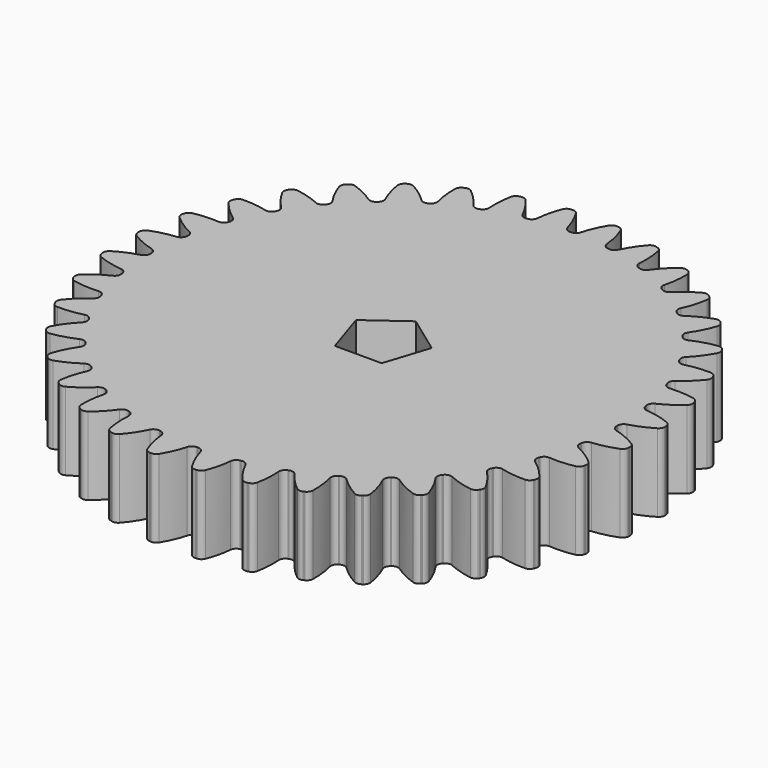
from build123d import *

# Parameters (mm, degrees)
F1_DEPTH = 5


with BuildPart() as f1:
    # F0 (on Top) → F1 (new body, symmetric)
    with BuildSketch(Plane.XY):
        with BuildLine():
            ThreePointArc((-0.065632, 29.879316), (-0.556379, 30.040292), (-0.846495, 30.467584))
            ThreePointArc((-0.846495, 30.467584), (-1.375451, 31.970422), (-2.110767, 33.383796))
            ThreePointArc((-2.110767, 33.383796), (-2.426682, 33.67679), (-2.848751, 33.763426))
            Line((-2.848751, 33.763426), (-2.9533, 33.756074))
            Line((-2.9533, 33.756074), (-3.057538, 33.74516))
            ThreePointArc((-3.057538, 33.74516), (-3.45815, 33.586548), (-3.718388, 33.243147))
            ThreePointArc((-3.718388, 33.243147), (-4.197103, 31.723559), (-4.457058, 30.151701))
            ThreePointArc((-4.457058, 30.151701), (-4.668568, 29.680522), (-5.123906, 29.436774))
            Line((-5.123906, 29.436774), (-5.188641, 29.426141))
            Line((-5.188641, 29.426141), (-5.25311, 29.413992))
            ThreePointArc((-5.25311, 29.413992), (-5.764354, 29.487306), (-6.124261, 29.857728))
            ThreePointArc((-6.124261, 29.857728), (-6.906146, 31.245882), (-7.87572, 32.510098))
            ThreePointArc((-7.87572, 32.510098), (-8.237714, 32.743782), (-8.668415, 32.755811))
            Line((-8.668415, 32.755811), (-8.7701, 32.730416))
            Line((-8.7701, 32.730416), (-8.870858, 32.701566))
            ThreePointArc((-8.870858, 32.701566), (-9.237842, 32.475799), (-9.434496, 32.092425))
            ThreePointArc((-9.434496, 32.092425), (-9.642064, 30.512795), (-9.625119, 28.919676))
            ThreePointArc((-9.625119, 28.919676), (-9.751596, 28.418927), (-10.157691, 28.099814))
            Line((-10.157691, 28.099814), (-10.219596, 28.0781))
            Line((-10.219596, 28.0781), (-10.280975, 28.054942))
            ThreePointArc((-10.280975, 28.054942), (-10.797183, 28.038365), (-11.215946, 28.340663))
            ThreePointArc((-11.215946, 28.340663), (-12.227003, 29.571954), (-13.401376, 30.648599))
            ThreePointArc((-13.401376, 30.648599), (-13.798449, 30.815873), (-14.224695, 30.752929))
            Line((-14.224695, 30.752929), (-14.320425, 30.710263))
            Line((-14.320425, 30.710263), (-14.414643, 30.664355))
            ThreePointArc((-14.414643, 30.664355), (-14.736847, 30.378291), (-14.863941, 29.966593))
            ThreePointArc((-14.863941, 29.966593), (-14.794056, 28.374918), (-14.500727, 26.808944))
            ThreePointArc((-14.500727, 26.808944), (-14.538328, 26.29384), (-14.88284, 25.909057))
            Line((-14.88284, 25.909057), (-14.940034, 25.876924))
            Line((-14.940034, 25.876924), (-14.996459, 25.843459))
            ThreePointArc((-14.996459, 25.843459), (-15.501947, 25.737495), (-15.96684, 25.962483))
            ThreePointArc((-15.96684, 25.962483), (-17.176349, 26.9995), (-18.519838, 27.85586))
            ThreePointArc((-18.519838, 27.85586), (-18.939925, 27.951643), (-19.348766, 27.815638))
            Line((-19.348766, 27.815638), (-19.435632, 27.756996))
            Line((-19.435632, 27.756996), (-19.520447, 27.695425))
            ThreePointArc((-19.520447, 27.695425), (-19.788082, 27.357757), (-19.841755, 26.930244))
            ThreePointArc((-19.841755, 26.930244), (-19.49654, 25.374885), (-18.935738, 23.883638))
            ThreePointArc((-18.935738, 23.883638), (-18.883322, 23.369831), (-19.155782, 22.93107))
            Line((-19.155782, 22.93107), (-19.206528, 22.889493))
            Line((-19.206528, 22.889493), (-19.256285, 22.846738))
            ThreePointArc((-19.256285, 22.846738), (-19.735692, 22.654607), (-20.232592, 22.795449))
            ThreePointArc((-20.232592, 22.795449), (-21.603801, 23.606683), (-23.075585, 24.216738))
            ThreePointArc((-23.075585, 24.216738), (-23.505923, 24.238118), (-23.884935, 24.033185))
            Line((-23.884935, 24.033185), (-23.960299, 23.96035))
            Line((-23.960299, 23.96035), (-24.033134, 23.884986))
            ThreePointArc((-24.033134, 23.884986), (-24.238067, 23.505974), (-24.216687, 23.075636))
            ThreePointArc((-24.216687, 23.075636), (-23.606632, 21.603852), (-22.795398, 20.232643))
            ThreePointArc((-22.795398, 20.232643), (-22.654556, 19.735743), (-22.846687, 19.256336))
            Line((-22.846687, 19.256336), (-22.889442, 19.206579))
            Line((-22.889442, 19.206579), (-22.931019, 19.155833))
            ThreePointArc((-22.931019, 19.155833), (-23.369779, 18.883373), (-23.883587, 18.935789))
            ThreePointArc((-23.883587, 18.935789), (-25.374834, 19.496591), (-26.930193, 19.841806))
            ThreePointArc((-26.930193, 19.841806), (-27.357706, 19.788133), (-27.695374, 19.520499))
            Line((-27.695374, 19.520499), (-27.756945, 19.435683))
            Line((-27.756945, 19.435683), (-27.815587, 19.348817))
            ThreePointArc((-27.815587, 19.348817), (-27.951592, 18.939976), (-27.855809, 18.519889))
            ThreePointArc((-27.855809, 18.519889), (-26.999449, 17.1764), (-25.962432, 15.966891))
            ThreePointArc((-25.962432, 15.966891), (-25.737444, 15.501998), (-25.843408, 14.99651))
            Line((-25.843408, 14.99651), (-25.876873, 14.940085))
            Line((-25.876873, 14.940085), (-25.909006, 14.882891))
            ThreePointArc((-25.909006, 14.882891), (-26.293789, 14.538379), (-26.808893, 14.500778))
            ThreePointArc((-26.808893, 14.500778), (-28.374866, 14.794107), (-29.966542, 14.863992))
            ThreePointArc((-29.966542, 14.863992), (-30.37824, 14.736898), (-30.664304, 14.414694))
            Line((-30.664304, 14.414694), (-30.710212, 14.320476))
            Line((-30.710212, 14.320476), (-30.752878, 14.224746))
            ThreePointArc((-30.752878, 14.224746), (-30.815822, 13.7985), (-30.648548, 13.401427))
            ThreePointArc((-30.648548, 13.401427), (-29.571903, 12.227054), (-28.340611, 11.215997))
            ThreePointArc((-28.340611, 11.215997), (-28.038314, 10.797234), (-28.054891, 10.281026))
            Line((-28.054891, 10.281026), (-28.078049, 10.219647))
            Line((-28.078049, 10.219647), (-28.099763, 10.157742))
            ThreePointArc((-28.099763, 10.157742), (-28.418876, 9.751647), (-28.919625, 9.62517))
            ThreePointArc((-28.919625, 9.62517), (-30.512744, 9.642115), (-32.092374, 9.434547))
            ThreePointArc((-32.092374, 9.434547), (-32.475748, 9.237893), (-32.701515, 8.870909))
            Line((-32.701515, 8.870909), (-32.730365, 8.770151))
            Line((-32.730365, 8.770151), (-32.75576, 8.668466))
            ThreePointArc((-32.75576, 8.668466), (-32.743731, 8.237765), (-32.510047, 7.875772))
            ThreePointArc((-32.510047, 7.875772), (-31.245831, 6.906197), (-29.857677, 6.124312))
            ThreePointArc((-29.857677, 6.124312), (-29.487255, 5.764405), (-29.413941, 5.253161))
            Line((-29.413941, 5.253161), (-29.42609, 5.188692))
            Line((-29.42609, 5.188692), (-29.436723, 5.123957))
            ThreePointArc((-29.436723, 5.123957), (-29.680471, 4.668619), (-30.15165, 4.457109))
            ThreePointArc((-30.15165, 4.457109), (-31.723508, 4.197154), (-33.243096, 3.71844))
            ThreePointArc((-33.243096, 3.71844), (-33.586497, 3.458201), (-33.745109, 3.057589))
            Line((-33.745109, 3.057589), (-33.756023, 2.953351))
            Line((-33.756023, 2.953351), (-33.763375, 2.848802))
            ThreePointArc((-33.763375, 2.848802), (-33.676739, 2.426733), (-33.383745, 2.110818))
            ThreePointArc((-33.383745, 2.110818), (-31.970371, 1.375502), (-30.467533, 0.846546))
            ThreePointArc((-30.467533, 0.846546), (-30.040241, 0.55643), (-29.879265, 0.065683))
            Line((-29.879265, 0.065683), (-29.880034, 8.5e-05))
            Line((-29.880034, 8.5e-05), (-29.879265, -0.065513))
            ThreePointArc((-29.879265, -0.065513), (-30.040241, -0.55626), (-30.467533, -0.846376))
            ThreePointArc((-30.467533, -0.846376), (-31.970371, -1.375332), (-33.383745, -2.110648))
            ThreePointArc((-33.383745, -2.110648), (-33.676739, -2.426563), (-33.763375, -2.848632))
            Line((-33.763375, -2.848632), (-33.756023, -2.953181))
            Line((-33.756023, -2.953181), (-33.745109, -3.057419))
            ThreePointArc((-33.745109, -3.057419), (-33.586497, -3.458031), (-33.243096, -3.71827))
            ThreePointArc((-33.243096, -3.71827), (-31.723508, -4.196984), (-30.15165, -4.456939))
            ThreePointArc((-30.15165, -4.456939), (-29.680471, -4.668449), (-29.436723, -5.123787))
            Line((-29.436723, -5.123787), (-29.42609, -5.188523))
            Line((-29.42609, -5.188523), (-29.413941, -5.252991))
            ThreePointArc((-29.413941, -5.252991), (-29.487255, -5.764235), (-29.857677, -6.124142))
            ThreePointArc((-29.857677, -6.124142), (-31.245831, -6.906027), (-32.510047, -7.875602))
            ThreePointArc((-32.510047, -7.875602), (-32.743731, -8.237596), (-32.75576, -8.668297))
            Line((-32.75576, -8.668297), (-32.730365, -8.769981))
            Line((-32.730365, -8.769981), (-32.701515, -8.870739))
            ThreePointArc((-32.701515, -8.870739), (-32.475748, -9.237723), (-32.092374, -9.434377))
            ThreePointArc((-32.092374, -9.434377), (-30.512744, -9.641945), (-28.919625, -9.625))
            ThreePointArc((-28.919625, -9.625), (-28.418876, -9.751478), (-28.099763, -10.157572))
            Line((-28.099763, -10.157572), (-28.078049, -10.219477))
            Line((-28.078049, -10.219477), (-28.054891, -10.280856))
            ThreePointArc((-28.054891, -10.280856), (-28.038314, -10.797065), (-28.340611, -11.215827))
            ThreePointArc((-28.340611, -11.215827), (-29.571903, -12.226884), (-30.648548, -13.401257))
            ThreePointArc((-30.648548, -13.401257), (-30.815822, -13.79833), (-30.752878, -14.224576))
            Line((-30.752878, -14.224576), (-30.710212, -14.320306))
            Line((-30.710212, -14.320306), (-30.664304, -14.414524))
            ThreePointArc((-30.664304, -14.414524), (-30.37824, -14.736728), (-29.966542, -14.863822))
            ThreePointArc((-29.966542, -14.863822), (-28.374866, -14.793937), (-26.808893, -14.500608))
            ThreePointArc((-26.808893, -14.500608), (-26.293789, -14.53821), (-25.909006, -14.882721))
            Line((-25.909006, -14.882721), (-25.876873, -14.939915))
            Line((-25.876873, -14.939915), (-25.843408, -14.99634))
            ThreePointArc((-25.843408, -14.99634), (-25.737444, -15.501828), (-25.962432, -15.966722))
            ThreePointArc((-25.962432, -15.966722), (-26.999449, -17.17623), (-27.855809, -18.519719))
            ThreePointArc((-27.855809, -18.519719), (-27.951592, -18.939807), (-27.815587, -19.348647))
            Line((-27.815587, -19.348647), (-27.756945, -19.435514))
            Line((-27.756945, -19.435514), (-27.695374, -19.520329))
            ThreePointArc((-27.695374, -19.520329), (-27.357706, -19.787963), (-26.930193, -19.841636))
            ThreePointArc((-26.930193, -19.841636), (-25.374834, -19.496421), (-23.883587, -18.935619))
            ThreePointArc((-23.883587, -18.935619), (-23.369779, -18.883203), (-22.931019, -19.155664))
            Line((-22.931019, -19.155664), (-22.889442, -19.206409))
            Line((-22.889442, -19.206409), (-22.846687, -19.256166))
            ThreePointArc((-22.846687, -19.256166), (-22.654556, -19.735573), (-22.795398, -20.232473))
            ThreePointArc((-22.795398, -20.232473), (-23.606632, -21.603682), (-24.216687, -23.075466))
            ThreePointArc((-24.216687, -23.075466), (-24.238067, -23.505804), (-24.033134, -23.884817))
            Line((-24.033134, -23.884817), (-23.960299, -23.96018))
            Line((-23.960299, -23.96018), (-23.884935, -24.033015))
            ThreePointArc((-23.884935, -24.033015), (-23.505923, -24.237948), (-23.075585, -24.216569))
            ThreePointArc((-23.075585, -24.216569), (-21.603801, -23.606513), (-20.232592, -22.795279))
            ThreePointArc((-20.232592, -22.795279), (-19.735692, -22.654437), (-19.256285, -22.846568))
            Line((-19.256285, -22.846568), (-19.206528, -22.889323))
            Line((-19.206528, -22.889323), (-19.155782, -22.9309))
            ThreePointArc((-19.155782, -22.9309), (-18.883322, -23.369661), (-18.935738, -23.883468))
            ThreePointArc((-18.935738, -23.883468), (-19.49654, -25.374715), (-19.841755, -26.930074))
            ThreePointArc((-19.841755, -26.930074), (-19.788082, -27.357587), (-19.520447, -27.695255))
            Line((-19.520447, -27.695255), (-19.435632, -27.756826))
            Line((-19.435632, -27.756826), (-19.348766, -27.815468))
            ThreePointArc((-19.348766, -27.815468), (-18.939925, -27.951473), (-18.519838, -27.855691))
            ThreePointArc((-18.519838, -27.855691), (-17.176349, -26.99933), (-15.96684, -25.962313))
            ThreePointArc((-15.96684, -25.962313), (-15.501947, -25.737325), (-14.996459, -25.843289))
            Line((-14.996459, -25.843289), (-14.940034, -25.876754))
            Line((-14.940034, -25.876754), (-14.88284, -25.908887))
            ThreePointArc((-14.88284, -25.908887), (-14.538328, -26.29367), (-14.500727, -26.808774))
            ThreePointArc((-14.500727, -26.808774), (-14.794056, -28.374748), (-14.863941, -29.966423))
            ThreePointArc((-14.863941, -29.966423), (-14.736847, -30.378121), (-14.414643, -30.664185))
            Line((-14.414643, -30.664185), (-14.320425, -30.710093))
            Line((-14.320425, -30.710093), (-14.224695, -30.752759))
            ThreePointArc((-14.224695, -30.752759), (-13.798449, -30.815704), (-13.401376, -30.648429))
            ThreePointArc((-13.401376, -30.648429), (-12.227003, -29.571784), (-11.215946, -28.340493))
            ThreePointArc((-11.215946, -28.340493), (-10.797183, -28.038195), (-10.280975, -28.054772))
            Line((-10.280975, -28.054772), (-10.219596, -28.077931))
            Line((-10.219596, -28.077931), (-10.157691, -28.099644))
            ThreePointArc((-10.157691, -28.099644), (-9.751596, -28.418757), (-9.625119, -28.919506))
            ThreePointArc((-9.625119, -28.919506), (-9.642064, -30.512625), (-9.434496, -32.092255))
            ThreePointArc((-9.434496, -32.092255), (-9.237842, -32.475629), (-8.870858, -32.701397))
            Line((-8.870858, -32.701397), (-8.7701, -32.730246))
            Line((-8.7701, -32.730246), (-8.668415, -32.755641))
            ThreePointArc((-8.668415, -32.755641), (-8.237714, -32.743612), (-7.87572, -32.509928))
            ThreePointArc((-7.87572, -32.509928), (-6.906146, -31.245712), (-6.124261, -29.857558))
            ThreePointArc((-6.124261, -29.857558), (-5.764354, -29.487136), (-5.25311, -29.413823))
            Line((-5.25311, -29.413823), (-5.188641, -29.425971))
            Line((-5.188641, -29.425971), (-5.123906, -29.436605))
            ThreePointArc((-5.123906, -29.436605), (-4.668568, -29.680352), (-4.457058, -30.151531))
            ThreePointArc((-4.457058, -30.151531), (-4.197103, -31.723389), (-3.718388, -33.242977))
            ThreePointArc((-3.718388, -33.242977), (-3.45815, -33.586378), (-3.057538, -33.74499))
            Line((-3.057538, -33.74499), (-2.9533, -33.755905))
            Line((-2.9533, -33.755905), (-2.848751, -33.763256))
            ThreePointArc((-2.848751, -33.763256), (-2.426682, -33.67662), (-2.110767, -33.383626))
            ThreePointArc((-2.110767, -33.383626), (-1.375451, -31.970252), (-0.846495, -30.467414))
            ThreePointArc((-0.846495, -30.467414), (-0.556379, -30.040122), (-0.065632, -29.879146))
            Line((-0.065632, -29.879146), (-3.4e-05, -29.879915))
            Line((-3.4e-05, -29.879915), (0.065564, -29.879146))
            ThreePointArc((0.065564, -29.879146), (0.556311, -30.040122), (0.846427, -30.467414))
            ThreePointArc((0.846427, -30.467414), (1.375383, -31.970252), (2.110699, -33.383626))
            ThreePointArc((2.110699, -33.383626), (2.426614, -33.67662), (2.848683, -33.763256))
            Line((2.848683, -33.763256), (2.953233, -33.755905))
            Line((2.953233, -33.755905), (3.05747, -33.74499))
            ThreePointArc((3.05747, -33.74499), (3.458082, -33.586378), (3.718321, -33.242977))
            ThreePointArc((3.718321, -33.242977), (4.197035, -31.723389), (4.45699, -30.151531))
            ThreePointArc((4.45699, -30.151531), (4.6685, -29.680352), (5.123839, -29.436605))
            Line((5.123839, -29.436605), (5.188574, -29.425971))
            Line((5.188574, -29.425971), (5.253042, -29.413823))
            ThreePointArc((5.253042, -29.413823), (5.764286, -29.487136), (6.124193, -29.857558))
            ThreePointArc((6.124193, -29.857558), (6.906078, -31.245712), (7.875653, -32.509928))
            ThreePointArc((7.875653, -32.509928), (8.237647, -32.743612), (8.668348, -32.755641))
            Line((8.668348, -32.755641), (8.770032, -32.730246))
            Line((8.770032, -32.730246), (8.87079, -32.701397))
            ThreePointArc((8.87079, -32.701397), (9.237774, -32.475629), (9.434428, -32.092255))
            ThreePointArc((9.434428, -32.092255), (9.641996, -30.512625), (9.625051, -28.919506))
            ThreePointArc((9.625051, -28.919506), (9.751529, -28.418757), (10.157623, -28.099644))
            Line((10.157623, -28.099644), (10.219528, -28.077931))
            Line((10.219528, -28.077931), (10.280907, -28.054772))
            ThreePointArc((10.280907, -28.054772), (10.797116, -28.038195), (11.215878, -28.340493))
            ThreePointArc((11.215878, -28.340493), (12.226935, -29.571784), (13.401308, -30.648429))
            ThreePointArc((13.401308, -30.648429), (13.798381, -30.815704), (14.224627, -30.752759))
            Line((14.224627, -30.752759), (14.320357, -30.710093))
            Line((14.320357, -30.710093), (14.414575, -30.664185))
            ThreePointArc((14.414575, -30.664185), (14.736779, -30.378121), (14.863873, -29.966423))
            ThreePointArc((14.863873, -29.966423), (14.793988, -28.374748), (14.500659, -26.808774))
            ThreePointArc((14.500659, -26.808774), (14.538261, -26.29367), (14.882772, -25.908887))
            Line((14.882772, -25.908887), (14.939966, -25.876754))
            Line((14.939966, -25.876754), (14.996391, -25.843289))
            ThreePointArc((14.996391, -25.843289), (15.501879, -25.737325), (15.966773, -25.962313))
            ThreePointArc((15.966773, -25.962313), (17.176281, -26.99933), (18.51977, -27.855691))
            ThreePointArc((18.51977, -27.855691), (18.939858, -27.951473), (19.348698, -27.815468))
            Line((19.348698, -27.815468), (19.435565, -27.756826))
            Line((19.435565, -27.756826), (19.52038, -27.695255))
            ThreePointArc((19.52038, -27.695255), (19.788014, -27.357587), (19.841687, -26.930074))
            ThreePointArc((19.841687, -26.930074), (19.496472, -25.374715), (18.93567, -23.883468))
            ThreePointArc((18.93567, -23.883468), (18.883254, -23.369661), (19.155715, -22.9309))
            Line((19.155715, -22.9309), (19.20646, -22.889323))
            Line((19.20646, -22.889323), (19.256217, -22.846568))
            ThreePointArc((19.256217, -22.846568), (19.735624, -22.654437), (20.232524, -22.795279))
            ThreePointArc((20.232524, -22.795279), (21.603733, -23.606513), (23.075517, -24.216569))
            ThreePointArc((23.075517, -24.216569), (23.505855, -24.237948), (23.884868, -24.033015))
            Line((23.884868, -24.033015), (23.960231, -23.96018))
            Line((23.960231, -23.96018), (24.033066, -23.884817))
            ThreePointArc((24.033066, -23.884817), (24.237999, -23.505804), (24.21662, -23.075466))
            ThreePointArc((24.21662, -23.075466), (23.606564, -21.603682), (22.79533, -20.232473))
            ThreePointArc((22.79533, -20.232473), (22.654488, -19.735573), (22.846619, -19.256166))
            Line((22.846619, -19.256166), (22.889374, -19.206409))
            Line((22.889374, -19.206409), (22.930951, -19.155664))
            ThreePointArc((22.930951, -19.155664), (23.369712, -18.883203), (23.883519, -18.935619))
            ThreePointArc((23.883519, -18.935619), (25.374766, -19.496421), (26.930125, -19.841636))
            ThreePointArc((26.930125, -19.841636), (27.357638, -19.787963), (27.695306, -19.520329))
            Line((27.695306, -19.520329), (27.756877, -19.435514))
            Line((27.756877, -19.435514), (27.815519, -19.348647))
            ThreePointArc((27.815519, -19.348647), (27.951524, -18.939807), (27.855742, -18.519719))
            ThreePointArc((27.855742, -18.519719), (26.999381, -17.17623), (25.962364, -15.966722))
            ThreePointArc((25.962364, -15.966722), (25.737376, -15.501828), (25.84334, -14.99634))
            Line((25.84334, -14.99634), (25.876805, -14.939915))
            Line((25.876805, -14.939915), (25.908938, -14.882721))
            ThreePointArc((25.908938, -14.882721), (26.293721, -14.53821), (26.808825, -14.500608))
            ThreePointArc((26.808825, -14.500608), (28.374799, -14.793937), (29.966474, -14.863822))
            ThreePointArc((29.966474, -14.863822), (30.378172, -14.736728), (30.664236, -14.414524))
            Line((30.664236, -14.414524), (30.710144, -14.320306))
            Line((30.710144, -14.320306), (30.75281, -14.224576))
            ThreePointArc((30.75281, -14.224576), (30.815755, -13.79833), (30.64848, -13.401257))
            ThreePointArc((30.64848, -13.401257), (29.571835, -12.226884), (28.340544, -11.215827))
            ThreePointArc((28.340544, -11.215827), (28.038246, -10.797065), (28.054823, -10.280856))
            Line((28.054823, -10.280856), (28.077982, -10.219477))
            Line((28.077982, -10.219477), (28.099695, -10.157572))
            ThreePointArc((28.099695, -10.157572), (28.418808, -9.751478), (28.919557, -9.625))
            ThreePointArc((28.919557, -9.625), (30.512676, -9.641945), (32.092306, -9.434377))
            ThreePointArc((32.092306, -9.434377), (32.47568, -9.237723), (32.701448, -8.870739))
            Line((32.701448, -8.870739), (32.730297, -8.769981))
            Line((32.730297, -8.769981), (32.755692, -8.668297))
            ThreePointArc((32.755692, -8.668297), (32.743663, -8.237596), (32.509979, -7.875602))
            ThreePointArc((32.509979, -7.875602), (31.245763, -6.906027), (29.857609, -6.124142))
            ThreePointArc((29.857609, -6.124142), (29.487187, -5.764235), (29.413874, -5.252991))
            Line((29.413874, -5.252991), (29.426022, -5.188523))
            Line((29.426022, -5.188523), (29.436656, -5.123787))
            ThreePointArc((29.436656, -5.123787), (29.680403, -4.668449), (30.151582, -4.456939))
            ThreePointArc((30.151582, -4.456939), (31.723441, -4.196984), (33.243029, -3.71827))
            ThreePointArc((33.243029, -3.71827), (33.586429, -3.458031), (33.745041, -3.057419))
            Line((33.745041, -3.057419), (33.755956, -2.953181))
            Line((33.755956, -2.953181), (33.763308, -2.848632))
            ThreePointArc((33.763308, -2.848632), (33.676671, -2.426563), (33.383677, -2.110648))
            ThreePointArc((33.383677, -2.110648), (31.970303, -1.375332), (30.467466, -0.846376))
            ThreePointArc((30.467466, -0.846376), (30.040173, -0.55626), (29.879197, -0.065513))
            Line((29.879197, -0.065513), (29.879966, 8.5e-05))
            Line((29.879966, 8.5e-05), (29.879197, 0.065683))
            ThreePointArc((29.879197, 0.065683), (30.040173, 0.55643), (30.467466, 0.846546))
            ThreePointArc((30.467466, 0.846546), (31.970303, 1.375502), (33.383677, 2.110818))
            ThreePointArc((33.383677, 2.110818), (33.676671, 2.426733), (33.763308, 2.848802))
            Line((33.763308, 2.848802), (33.755956, 2.953351))
            Line((33.755956, 2.953351), (33.745041, 3.057589))
            ThreePointArc((33.745041, 3.057589), (33.586429, 3.458201), (33.243029, 3.71844))
            ThreePointArc((33.243029, 3.71844), (31.723441, 4.197154), (30.151582, 4.457109))
            ThreePointArc((30.151582, 4.457109), (29.680403, 4.668619), (29.436656, 5.123957))
            Line((29.436656, 5.123957), (29.426022, 5.188692))
            Line((29.426022, 5.188692), (29.413874, 5.253161))
            ThreePointArc((29.413874, 5.253161), (29.487187, 5.764405), (29.857609, 6.124312))
            ThreePointArc((29.857609, 6.124312), (31.245763, 6.906197), (32.509979, 7.875772))
            ThreePointArc((32.509979, 7.875772), (32.743663, 8.237765), (32.755692, 8.668466))
            Line((32.755692, 8.668466), (32.730297, 8.770151))
            Line((32.730297, 8.770151), (32.701448, 8.870909))
            ThreePointArc((32.701448, 8.870909), (32.47568, 9.237893), (32.092306, 9.434547))
            ThreePointArc((32.092306, 9.434547), (30.512676, 9.642115), (28.919557, 9.62517))
            ThreePointArc((28.919557, 9.62517), (28.418808, 9.751647), (28.099695, 10.157742))
            Line((28.099695, 10.157742), (28.077982, 10.219647))
            Line((28.077982, 10.219647), (28.054823, 10.281026))
            ThreePointArc((28.054823, 10.281026), (28.038246, 10.797234), (28.340544, 11.215997))
            ThreePointArc((28.340544, 11.215997), (29.571835, 12.227054), (30.64848, 13.401427))
            ThreePointArc((30.64848, 13.401427), (30.815755, 13.7985), (30.75281, 14.224746))
            Line((30.75281, 14.224746), (30.710144, 14.320476))
            Line((30.710144, 14.320476), (30.664236, 14.414694))
            ThreePointArc((30.664236, 14.414694), (30.378172, 14.736898), (29.966474, 14.863992))
            ThreePointArc((29.966474, 14.863992), (28.374799, 14.794107), (26.808825, 14.500778))
            ThreePointArc((26.808825, 14.500778), (26.293721, 14.538379), (25.908938, 14.882891))
            Line((25.908938, 14.882891), (25.876805, 14.940085))
            Line((25.876805, 14.940085), (25.84334, 14.99651))
            ThreePointArc((25.84334, 14.99651), (25.737376, 15.501998), (25.962364, 15.966891))
            ThreePointArc((25.962364, 15.966891), (26.999381, 17.1764), (27.855742, 18.519889))
            ThreePointArc((27.855742, 18.519889), (27.951524, 18.939976), (27.815519, 19.348817))
            Line((27.815519, 19.348817), (27.756877, 19.435683))
            Line((27.756877, 19.435683), (27.695306, 19.520499))
            ThreePointArc((27.695306, 19.520499), (27.357638, 19.788133), (26.930125, 19.841806))
            ThreePointArc((26.930125, 19.841806), (25.374766, 19.496591), (23.883519, 18.935789))
            ThreePointArc((23.883519, 18.935789), (23.369712, 18.883373), (22.930951, 19.155833))
            Line((22.930951, 19.155833), (22.889374, 19.206579))
            Line((22.889374, 19.206579), (22.846619, 19.256336))
            ThreePointArc((22.846619, 19.256336), (22.654488, 19.735743), (22.79533, 20.232643))
            ThreePointArc((22.79533, 20.232643), (23.606564, 21.603852), (24.21662, 23.075636))
            ThreePointArc((24.21662, 23.075636), (24.237999, 23.505974), (24.033066, 23.884986))
            Line((24.033066, 23.884986), (23.960231, 23.96035))
            Line((23.960231, 23.96035), (23.884868, 24.033185))
            ThreePointArc((23.884868, 24.033185), (23.505855, 24.238118), (23.075517, 24.216738))
            ThreePointArc((23.075517, 24.216738), (21.603733, 23.606683), (20.232524, 22.795449))
            ThreePointArc((20.232524, 22.795449), (19.735624, 22.654607), (19.256217, 22.846738))
            Line((19.256217, 22.846738), (19.20646, 22.889493))
            Line((19.20646, 22.889493), (19.155715, 22.93107))
            ThreePointArc((19.155715, 22.93107), (18.883254, 23.369831), (18.93567, 23.883638))
            ThreePointArc((18.93567, 23.883638), (19.496472, 25.374885), (19.841687, 26.930244))
            ThreePointArc((19.841687, 26.930244), (19.788014, 27.357757), (19.52038, 27.695425))
            Line((19.52038, 27.695425), (19.435565, 27.756996))
            Line((19.435565, 27.756996), (19.348698, 27.815638))
            ThreePointArc((19.348698, 27.815638), (18.939858, 27.951643), (18.51977, 27.85586))
            ThreePointArc((18.51977, 27.85586), (17.176281, 26.9995), (15.966773, 25.962483))
            ThreePointArc((15.966773, 25.962483), (15.501879, 25.737495), (14.996391, 25.843459))
            Line((14.996391, 25.843459), (14.939966, 25.876924))
            Line((14.939966, 25.876924), (14.882772, 25.909057))
            ThreePointArc((14.882772, 25.909057), (14.538261, 26.29384), (14.500659, 26.808944))
            ThreePointArc((14.500659, 26.808944), (14.793988, 28.374918), (14.863873, 29.966593))
            ThreePointArc((14.863873, 29.966593), (14.736779, 30.378291), (14.414575, 30.664355))
            Line((14.414575, 30.664355), (14.320357, 30.710263))
            Line((14.320357, 30.710263), (14.224627, 30.752929))
            ThreePointArc((14.224627, 30.752929), (13.798381, 30.815873), (13.401308, 30.648599))
            ThreePointArc((13.401308, 30.648599), (12.226935, 29.571954), (11.215878, 28.340663))
            ThreePointArc((11.215878, 28.340663), (10.797116, 28.038365), (10.280907, 28.054942))
            Line((10.280907, 28.054942), (10.219528, 28.0781))
            Line((10.219528, 28.0781), (10.157623, 28.099814))
            ThreePointArc((10.157623, 28.099814), (9.751529, 28.418927), (9.625051, 28.919676))
            ThreePointArc((9.625051, 28.919676), (9.641996, 30.512795), (9.434428, 32.092425))
            ThreePointArc((9.434428, 32.092425), (9.237774, 32.475799), (8.87079, 32.701566))
            Line((8.87079, 32.701566), (8.770032, 32.730416))
            Line((8.770032, 32.730416), (8.668348, 32.755811))
            ThreePointArc((8.668348, 32.755811), (8.237647, 32.743782), (7.875653, 32.510098))
            ThreePointArc((7.875653, 32.510098), (6.906078, 31.245882), (6.124193, 29.857728))
            ThreePointArc((6.124193, 29.857728), (5.764286, 29.487306), (5.253042, 29.413992))
            Line((5.253042, 29.413992), (5.188574, 29.426141))
            Line((5.188574, 29.426141), (5.123839, 29.436774))
            ThreePointArc((5.123839, 29.436774), (4.6685, 29.680522), (4.45699, 30.151701))
            ThreePointArc((4.45699, 30.151701), (4.197035, 31.723559), (3.718321, 33.243147))
            ThreePointArc((3.718321, 33.243147), (3.458082, 33.586548), (3.05747, 33.74516))
            Line((3.05747, 33.74516), (2.953233, 33.756074))
            Line((2.953233, 33.756074), (2.848683, 33.763426))
            ThreePointArc((2.848683, 33.763426), (2.426614, 33.67679), (2.110699, 33.383796))
            ThreePointArc((2.110699, 33.383796), (1.375383, 31.970422), (0.846427, 30.467584))
            ThreePointArc((0.846427, 30.467584), (0.556311, 30.040292), (0.065564, 29.879316))
            Line((0.065564, 29.879316), (-3.4e-05, 29.880085))
            Line((-3.4e-05, 29.880085), (-0.065632, 29.879316))
        make_face()
        Polygon((0, 5.1), (4.850388, 1.575987), (2.997705, -4.125987), (-2.997705, -4.125987), (-4.850388, 1.575987), align=None, mode=Mode.SUBTRACT)
    extrude(amount=F1_DEPTH, both=True)


solid = f1.part
